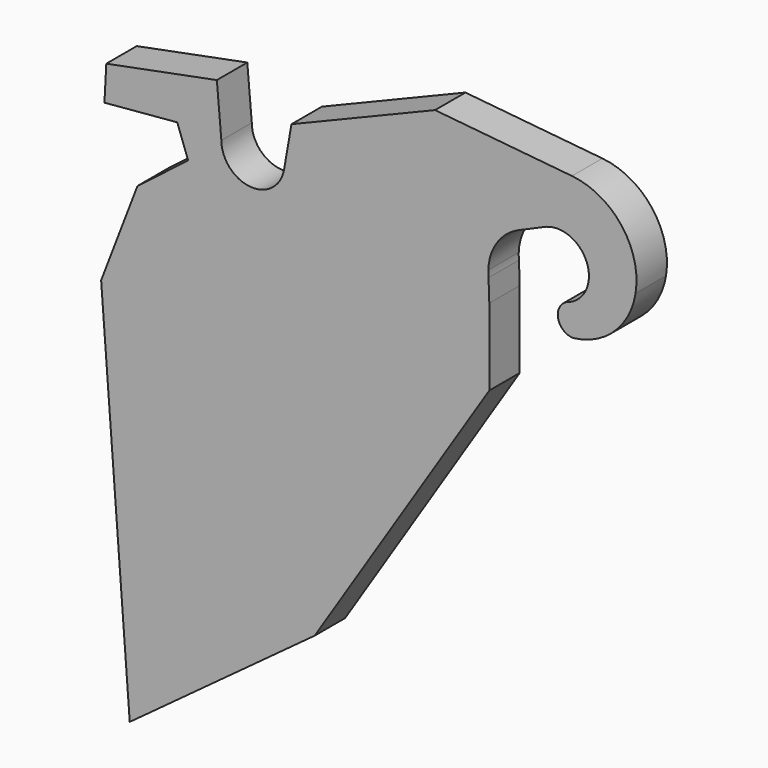
from build123d import *

# Parameters (mm, degrees)
F1_DEPTH = 25


with BuildPart() as f1:
    # F0 (on Front) → F1 (new body)
    with BuildSketch(Plane.XZ):
        with BuildLine():
            ThreePointArc((210.7900996534, -39.1419847991), (237.6177301096, -26.3390851309), (251.3977370138, 0))
            Line((251.3977370138, 0), (220.75, 0))
            ThreePointArc((220.75, 0), (216.6313755102, -12.4080557961), (205.9104965167, -19.8904130406))
            ThreePointArc((205.9104965167, -19.8904130406), (203.7307412614, -21.3576975777), (202, -23.3347639831))
            Line((202, -23.3347639831), (202, -34.6340773268))
            ThreePointArc((202, -34.6340773268), (205.8105086824, -38.0278448107), (210.7900996534, -39.1419847991))
        make_face()
        with BuildLine():
            ThreePointArc((202, -23.3347639831), (200.2850186662, -28.984420655), (202, -34.6340773268))
            Line((202, -34.6340773268), (202, -23.3347639831))
        make_face()
        with BuildLine():
            Line((25.3114801989, 24.2953589364), (21.0646269025, 0))
            Line((21.0646269025, 0), (154, 0))
            Line((154, 0), (160.5472754862, 0))
            ThreePointArc((160.5472754862, 0), (166.8205732831, 6.8086025808), (174.7224661833, 11.6326489056))
            Line((174.7224661833, 11.6326489056), (190.8394987814, 18.6184778493))
            ThreePointArc((190.8394987814, 18.6184778493), (191.7478739862, 19.038511398), (192.6754452712, 19.4142575966))
            ThreePointArc((192.6754452712, 19.4142575966), (211.8020758636, 17.0667368091), (220.75, 0))
            Line((220.75, 0), (251.3977370138, 0))
            ThreePointArc((251.3977370138, 0), (242.2377138986, 36.1766919921), (209.6012580564, 54.2742282063))
            Line((209.6012580564, 54.2742282063), (119.6315883608, 63.1246931609))
            Line((119.6315883608, 63.1246931609), (25.3114801989, 24.2953589364))
        make_face()
        with BuildLine():
            ThreePointArc((20.4400724491, -3.5729453221), (-1.7931810673, -20.6723729083), (-20.75, 0))
            Line((-20.75, 0), (-49.3885839036, 0))
            Line((-49.3885839036, 0), (-42.5576653039, -18.7677946067))
            Line((-42.5576653039, -18.7677946067), (-75.8785055961, -44.3357746251))
            Line((-75.8785055961, -44.3357746251), (-99.7378202288, -106.6764599215))
            Line((-99.7378202288, -106.6764599215), (27.7757229831, -97.0631066148))
            Line((27.7757229831, -97.0631066148), (155.289266195, -87.449753308))
            Line((155.289266195, -87.449753308), (155.289266195, -36.919753308))
            Line((155.289266195, -36.919753308), (154.7796214415, -22.3254370622))
            ThreePointArc((154.7796214415, -22.3254370622), (154.6339324313, -20.1651687544), (154.6285738509, -18))
            ThreePointArc((154.6285738509, -18), (156.2841628525, -8.5713012671), (160.5472754862, 0))
            Line((160.5472754862, 0), (154, 0))
            Line((154, 0), (21.0646269025, 0))
            Line((21.0646269025, 0), (20.4400724491, -3.5729453221))
        make_face()
        Polygon((-49.3885839036, 0), (-20.75, 0), (-23.7132952534, 33.8706197351), (-96.3537068285, 19.7507540773), (-97.3887999889, 0), (-60.7786662376, 0), (-49.7400883137, 0.9657504298), align=None)
        Polygon((-97.5574338221, -3.2177252221), (-60.7786662376, 0), (-97.3887999889, 0), align=None)
        Polygon((27.7757229831, -97.0631066148), (-99.7378202288, -106.6764599215), (-80.9434457456, -355.9690019034), (40.5558976317, -266.5820351624), align=None)
        Polygon((155.289266195, -87.449753308), (27.7757229831, -97.0631066148), (40.5558976317, -266.5820351624), align=None)
    extrude(amount=F1_DEPTH)


solid = f1.part
